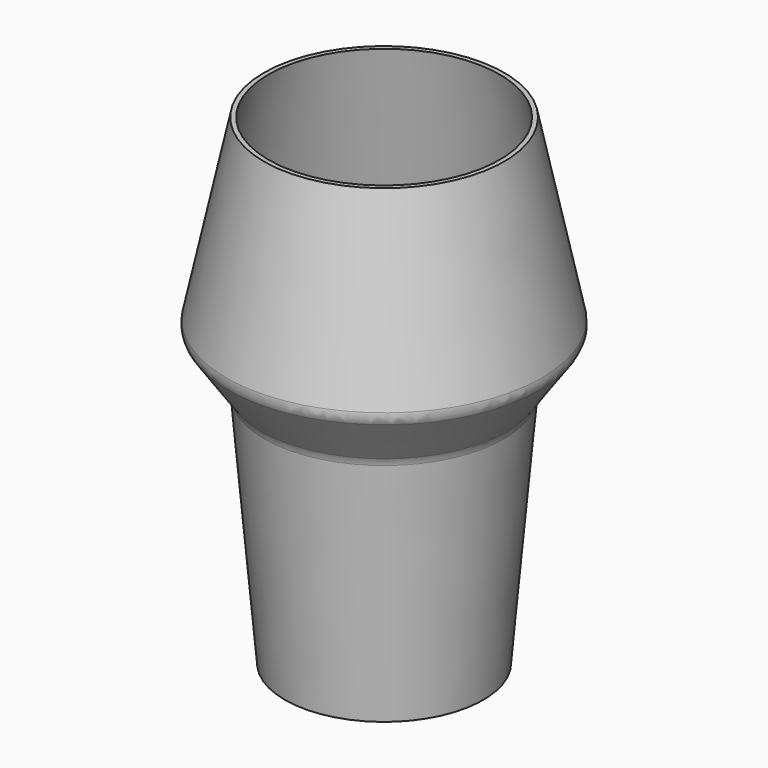
from build123d import *

# Parameters (mm, degrees)
F2_R = 5
F3_T = -1.5


with BuildPart() as f1:
    # F0 (on Front) → F1 (revolve)
    with BuildSketch(Plane.XZ):
        Polygon((-40, 80), (-33.0009069179, 0), (0, 0), (0, 160), (-40, 160), (-53.0446591225, 98.6297039244), align=None)
    revolve(axis=Axis((0, 0, 80), (0, 0, 1)))

    # F2
    f2_edges = [f1.edges().sort_by_distance(p)[0] for p in [
        (53.044659, 0, 98.629704),
        (40, 0, 80),
    ]]
    fillet(f2_edges, radius=F2_R)

    # F3
    f3_openings = [f1.faces().sort_by_distance(p)[0] for p in [
        (0, 0, 160),
    ]]
    offset(amount=F3_T, openings=f3_openings)


solid = f1.part
